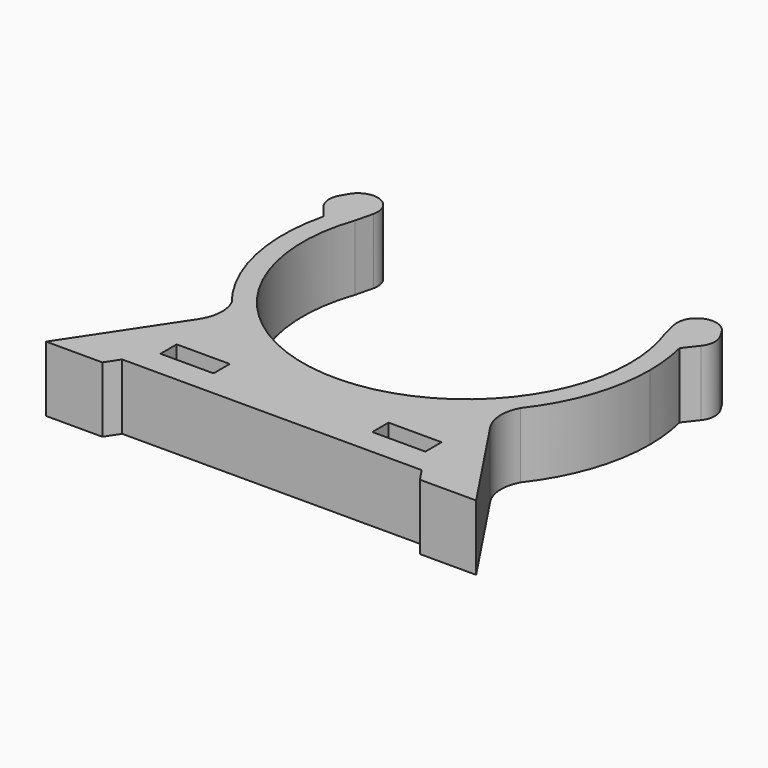
from build123d import *

# Parameters (mm, degrees)
F0_W     = 8.1
F0_H     = 3.1
F1_DEPTH = 10


with BuildPart() as f1:
    # F0 (on Top) → F1 (new body)
    with BuildSketch(Plane.XY):
        with BuildLine():
            ThreePointArc((-29.051798, 29.572342), (-29.198001, 16.866823), (-23.713784, 5.404932))
            ThreePointArc((-23.713784, 5.404932), (-1.702548, -5.093764), (20.19153, 5.647114))
            ThreePointArc((20.19153, 5.647114), (24.613354, 13.777795), (26.143006, 22.90581))
            ThreePointArc((26.143006, 22.90581), (25.940978, 26.263301), (25.33781, 29.572342))
            ThreePointArc((25.33781, 29.572342), (24.101087, 33.402381), (22.32803, 37.015544))
            ThreePointArc((22.32803, 37.015544), (21.20556, 35.608031), (21.090924, 33.811397))
            Line((21.090924, 33.811397), (21.746385, 31.144773))
            ThreePointArc((21.746385, 31.144773), (22.791378, 27.084059), (23.143006, 22.90581))
            ThreePointArc((23.143006, 22.90581), (-6.035243, -1.742562), (-25.460373, 31.144773))
            Line((-25.460373, 31.144773), (-24.804912, 33.811397))
            ThreePointArc((-24.804912, 33.811397), (-24.919548, 35.608031), (-26.042018, 37.015544))
            ThreePointArc((-26.042018, 37.015544), (-27.815075, 33.402381), (-29.051798, 29.572342))
        make_face()
        with BuildLine():
            Line((-30.676976, 31.650005), (-29.051798, 29.572342))
            ThreePointArc((-29.051798, 29.572342), (-27.815075, 33.402381), (-26.042018, 37.015544))
            ThreePointArc((-26.042018, 37.015544), (-28.392122, 37.45081), (-30.314474, 36.030595))
            Line((-30.314474, 36.030595), (-30.910288, 35.001461))
            ThreePointArc((-30.910288, 35.001461), (-31.306766, 33.290011), (-30.676976, 31.650005))
        make_face()
        with BuildLine():
            ThreePointArc((26.600486, 36.030595), (24.678134, 37.45081), (22.32803, 37.015544))
            ThreePointArc((22.32803, 37.015544), (24.101087, 33.402381), (25.33781, 29.572342))
            Line((25.33781, 29.572342), (26.962988, 31.650005))
            ThreePointArc((26.962988, 31.650005), (27.592778, 33.290011), (27.1963, 35.001461))
            Line((27.1963, 35.001461), (26.600486, 36.030595))
        make_face()
        with BuildLine():
            ThreePointArc((-23.713784, 5.404932), (-23.173383, 2.424271), (-24.15798, -0.440505))
            Line((-24.15798, -0.440505), (-34.690085, -16.299085))
            Line((-34.690085, -16.299085), (-26.101912, -16.299085))
            Line((-26.101912, -16.299085), (-24.726056, -14.227407))
            Line((-24.726056, -14.227407), (-1.856994, -14.227407))
            Line((-1.856994, -14.227407), (21.012068, -14.227407))
            Line((21.012068, -14.227407), (22.387924, -16.299085))
            Line((22.387924, -16.299085), (30.976097, -16.299085))
            Line((30.976097, -16.299085), (20.484479, -0.501468))
            ThreePointArc((20.484479, -0.501468), (19.489432, 2.532393), (20.19153, 5.647114))
            ThreePointArc((20.19153, 5.647114), (-1.702548, -5.093764), (-23.713784, 5.404932))
        make_face()
        with Locations((-18.030923, -8.677407)):
            Rectangle(F0_W, F0_H, mode=Mode.SUBTRACT)
        with Locations((14.316935, -8.677407)):
            Rectangle(F0_W, F0_H, mode=Mode.SUBTRACT)
    extrude(amount=F1_DEPTH)


solid = f1.part
